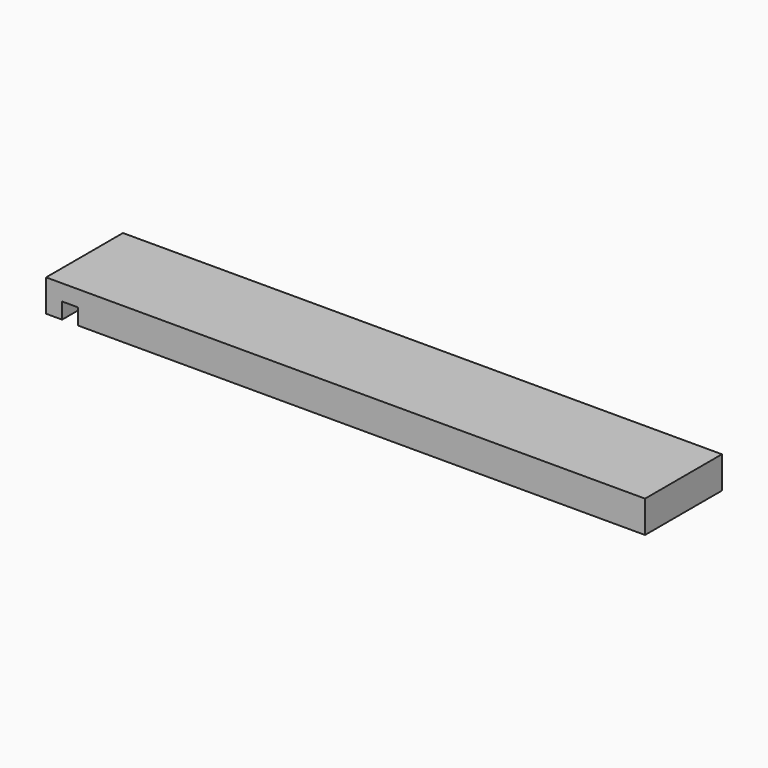
from build123d import *

# Parameters (mm, degrees)
F0_W     = 25
F0_H     = 25
F1_DEPTH = 150
F2_DEPTH = 150
F3_W     = 150
F3_H     = 50
F4_DEPTH = 810


with BuildPart() as f1:
    # F0 (on Front) → F1 (new body)
    with BuildSketch(Plane.XZ):
        Polygon((68.171213, 0), (68.171213, 50), (-31.828787, 50), (-31.828787, 25), (-6.828787, 25), (-6.828787, 0), align=None)
        with Locations((-44.328787, 37.5)):
            Rectangle(F0_W, F0_H)
        with Locations((-44.328787, 12.5)):
            Rectangle(F0_W, F0_H)
    extrude(amount=F1_DEPTH)

    # F0 (on Front) → F2 (join)
    with BuildSketch(Plane.XZ):
        Polygon((68.171213, 0), (68.171213, 50), (-31.828787, 50), (-31.828787, 25), (-6.828787, 25), (-6.828787, 0), align=None)
        with Locations((-44.328787, 37.5)):
            Rectangle(F0_W, F0_H)
        with Locations((-44.328787, 12.5)):
            Rectangle(F0_W, F0_H)
    extrude(amount=F2_DEPTH)

    # F3 (on face) → F4 (join)
    with BuildSketch(Plane.YZ.offset(68.171213)):
        with Locations((-75, 25)):
            Rectangle(F3_W, F3_H)
    extrude(amount=F4_DEPTH)


solid = f1.part
